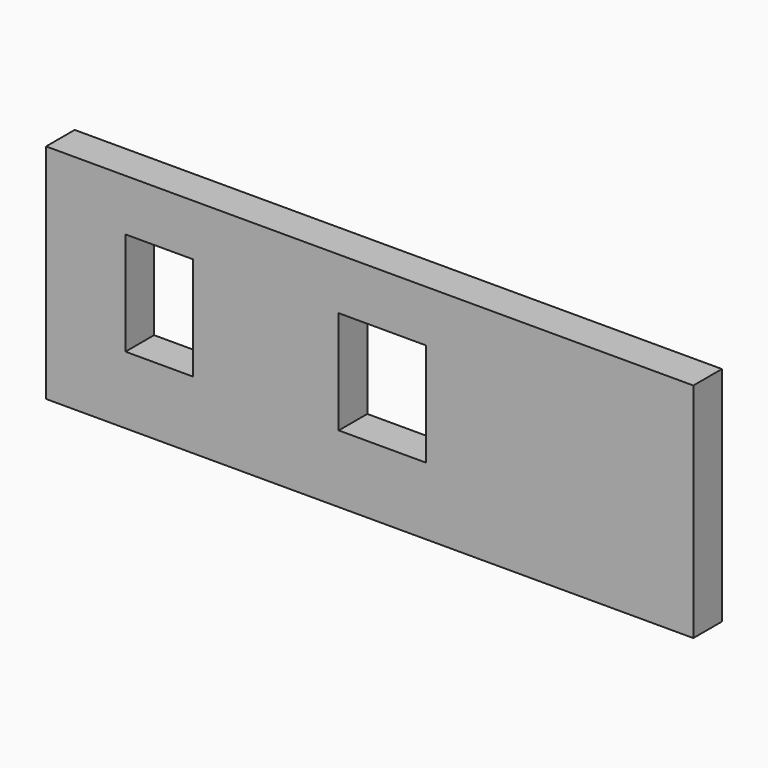
from build123d import *

# Parameters (mm, degrees)
F0_W     = 8150
F0_H     = 2800
F0_W_2   = 850
F0_H_2   = 1300
F0_W_3   = 1100
F1_DEPTH = 450


with BuildPart() as f1:
    # F0 (on Front) → F1 (new body)
    with BuildSketch(Plane.XZ):
        with Locations((4075, 1400)):
            Rectangle(F0_W, F0_H)
        with Locations((1425, 1500)):
            Rectangle(F0_W_2, F0_H_2, mode=Mode.SUBTRACT)
        with Locations((4235, 1500)):
            Rectangle(F0_W_3, F0_H_2, mode=Mode.SUBTRACT)
    extrude(amount=F1_DEPTH)


solid = f1.part
